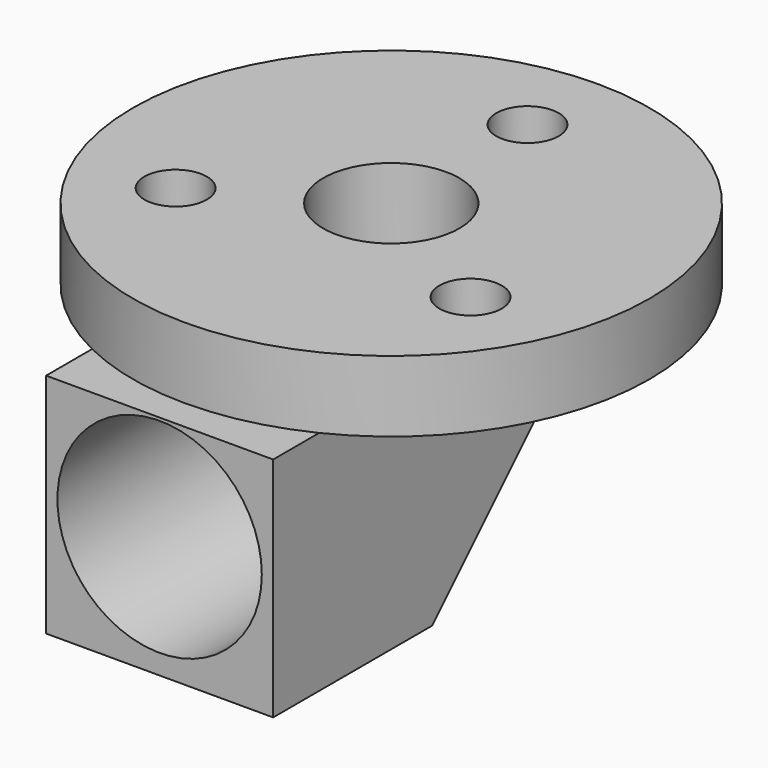
from build123d import *

# Parameters (mm, degrees)
SKETCH033_R     = 9.1
PAD022_DEPTH    = 2.5
SKETCH032_R     = 1.1
SKETCH032_R_2   = 2.4
POCKET034_DEPTH = 2.5
SKETCH034_W     = 8
SKETCH034_H     = 15
PAD023_DEPTH    = 8
POCKET035_DEPTH = 8
SKETCH036_R     = 2.4
POCKET036_DEPTH = 8
SKETCH037_R     = 3.6
POCKET037_DEPTH = 20


with BuildPart() as part:
    # Sketch033 → Pad022 (new body)
    with BuildSketch(Plane.XY):
        Circle(SKETCH033_R)
    extrude(amount=PAD022_DEPTH)

    # Sketch032 (on Face3 of Pad022) → Pocket034 (cut)
    with BuildSketch(Plane.XY.offset(2.5)):
        with Locations((0, 6)):
            Circle(SKETCH032_R)
        with Locations((5.195, -3.001995)):
            Circle(SKETCH032_R)
        with Locations((-5.195, -3.001995)):
            Circle(SKETCH032_R)
        Circle(SKETCH032_R_2)
    extrude(amount=-POCKET034_DEPTH, mode=Mode.SUBTRACT)

    # Sketch034 (on Face2 of Pocket034) → Pad023 (join)
    with BuildSketch(Plane(origin=(0, 0, 0), x_dir=(1, 0, 0), z_dir=(0, 0, -1))):
        with Locations((0, 2.7)):
            Rectangle(SKETCH034_W, SKETCH034_H)
    extrude(amount=PAD023_DEPTH)

    # Sketch035 (on Face7 of Pad023) → Pocket035 (cut)
    with BuildSketch(Plane(origin=(-4, 0, 0), x_dir=(0, -1, 0), z_dir=(-1, 0, 0))):
        Polygon((-4.8, 0), (3.2, -8), (-4.8, -8), align=None)
    extrude(amount=-POCKET035_DEPTH, mode=Mode.SUBTRACT)

    # Sketch036 (on Face14 of Pocket035) → Pocket036 (cut)
    with BuildSketch(Plane.XY):
        Circle(SKETCH036_R)
    extrude(amount=-POCKET036_DEPTH, mode=Mode.SUBTRACT)

    # Sketch037 (on Face11 of Pocket036) → Pocket037 (cut)
    with BuildSketch(Plane.XZ.offset(10.2)):
        with Locations((0, -3.7)):
            Circle(SKETCH037_R)
    extrude(amount=-POCKET037_DEPTH, mode=Mode.SUBTRACT)


with BuildPart() as part_1:
    # Body014 placement: moved
    add(part.part.moved(Location((-81.5, 70, 9.25))))


solid = part_1.part
